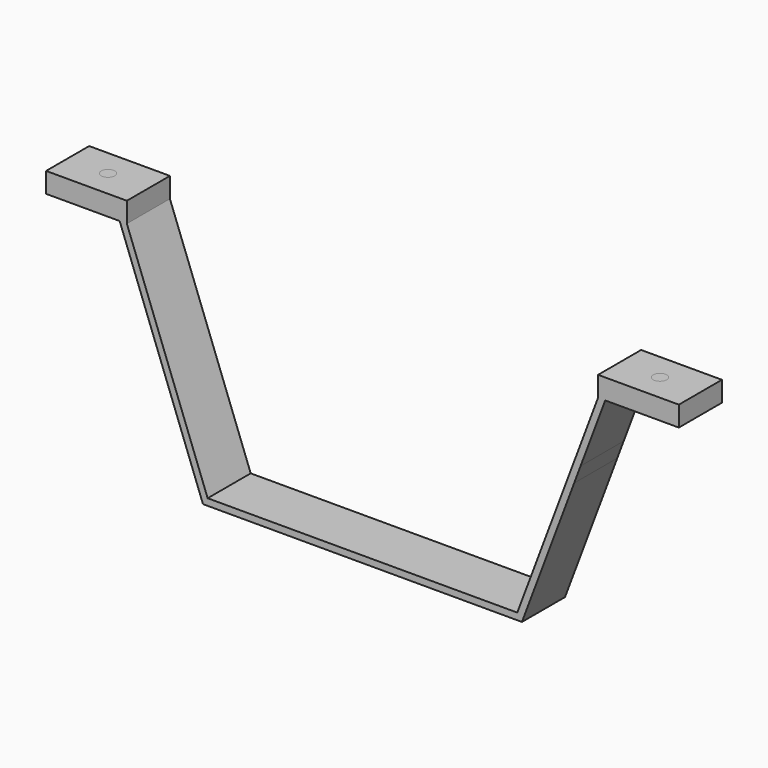
from build123d import *

# Parameters (mm, degrees)
F1_DEPTH = 12.7
F2_R     = 3.175
F3_DEPTH = 9.525
F4_R     = 3.175
F5_DEPTH = 9.525


with BuildPart() as f1:
    # F0 (on Front) → F1 (new body, symmetric)
    with BuildSketch(Plane.XZ):
        Polygon((-75.287023, 25.684148), (-106.424246, 25.684148), (-106.424246, 16.159148), (-71.715148, 16.159148), align=None)
        Polygon((-68.324246, 25.684148), (-75.287023, 25.684148), (-71.715148, 16.159148), (-68.324246, 16.159148), align=None)
        Polygon((-68.324246, 16.159148), (-71.715148, 16.159148), (-60.086074, -14.851716), (-58.47931, -19.136419), (-32.424523, -88.615852), (118.02603, -88.615852), (142.664416, -22.91349), (145.687581, -14.851716), (157.316655, 16.159148), (153.925754, 16.159148), (115.825754, -85.440852), (-30.224246, -85.440852), align=None)
        Polygon((153.925754, 25.684148), (153.925754, 16.159148), (157.316655, 16.159148), (160.88853, 25.684148), align=None)
        Polygon((160.88853, 25.684148), (157.316655, 16.159148), (192.025754, 16.159148), (192.025754, 25.684148), align=None)
    extrude(amount=F1_DEPTH, both=True)


with BuildPart() as f3:
    # F2 (on face) → F3 (new body)
    with BuildSketch(Plane.XY.offset(25.684148)):
        with Locations((-87.374246, 0)):
            Circle(F2_R)
    extrude(amount=-F3_DEPTH)


with BuildPart() as f5:
    # F4 (on face) → F5 (new body)
    with BuildSketch(Plane.XY.offset(25.684148)):
        with Locations((172.975754, 0)):
            Circle(F4_R)
    extrude(amount=-F5_DEPTH)


solid = Compound([f1.part, f3.part, f5.part])
